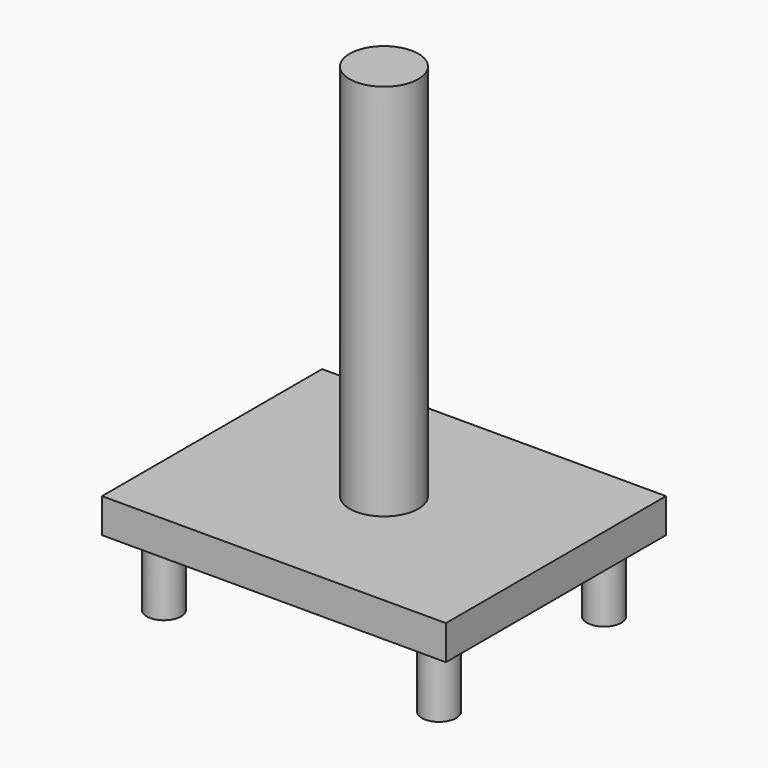
from build123d import *

# Parameters (mm, degrees)
F0_W     = 63.5
F0_H     = 50.8
F1_DEPTH = 6.35
F2_R     = 6.35
F3_DEPTH = 69.85
F4_R     = 3.175
F5_DEPTH = 12.7


with BuildPart() as f1:
    # F0 (on Top) → F1 (new body)
    with BuildSketch(Plane.XY):
        Rectangle(F0_W, F0_H)
    extrude(amount=F1_DEPTH)

    # F2 (on face) → F3 (join)
    with BuildSketch(Plane.XY.offset(6.35)):
        Circle(F2_R)
    extrude(amount=F3_DEPTH)

    # F4 (on face) → F5 (join)
    with BuildSketch(Plane(origin=(0, 0, 0), x_dir=(1, 0, 0), z_dir=(0, 0, -1))):
        with Locations((-25.4, 19.05)):
            Circle(F4_R)
        with Locations((25.4, 19.05)):
            Circle(F4_R)
        with Locations((-25.4, -19.05)):
            Circle(F4_R)
        with Locations((25.4, -19.05)):
            Circle(F4_R)
    extrude(amount=F5_DEPTH)


solid = f1.part
